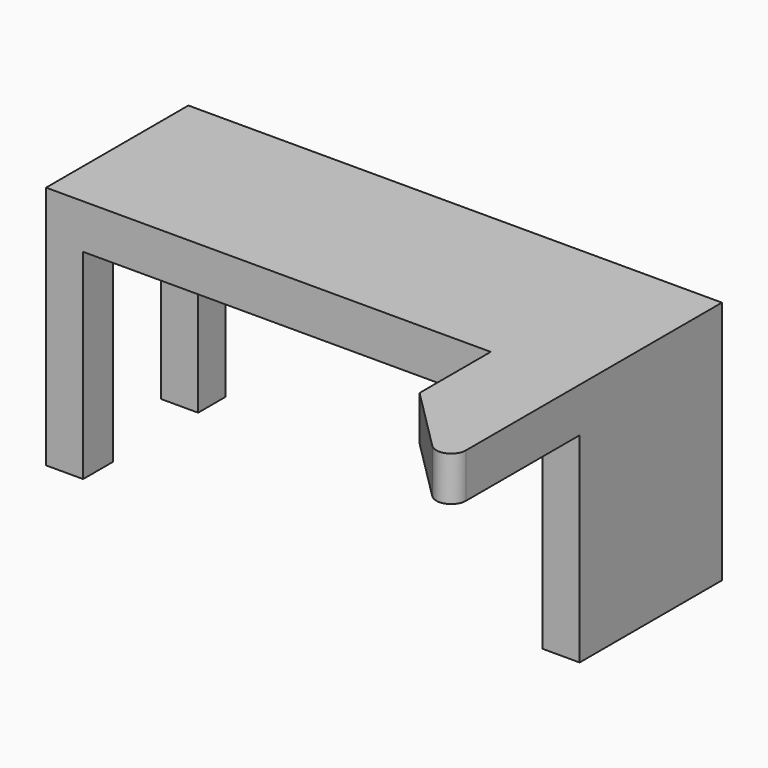
from build123d import *

# Parameters (mm, degrees)
F0_W     = 1828.8
F0_H     = 609.6
F1_DEPTH = 152.4
F2_W     = 127
F2_H     = 127
F2_H_2   = 116.919603
F3_DEPTH = 685.8
F5_DEPTH = 152.4


with BuildPart() as f1:
    # F0 (on Top) → F1 (new body)
    with BuildSketch(Plane.XY):
        Rectangle(F0_W, F0_H)
    extrude(amount=F1_DEPTH)

    # F2 (on face) → F3 (join)
    with BuildSketch(Plane(origin=(0, 0, 0), x_dir=(1, 0, 0), z_dir=(0, 0, -1))):
        with Locations((-850.9, 241.3)):
            Rectangle(F2_W, F2_H)
        with Locations((-850.9, -246.340198)):
            Rectangle(F2_W, F2_H_2)
        Polygon((787.4, -304.8), (914.4, -304.8), (914.4, 177.8), (914.4, 304.8), (787.4, 304.8), (787.4, -177.8), (482.6, -177.8), (482.6, -304.8), align=None)
    extrude(amount=F3_DEPTH)

    # F4 (on face) → F5 (join, through all)
    with BuildSketch(Plane.XY.offset(152.4)):
        with BuildLine():
            Line((914.4, -791.757951), (914.4, -304.8))
            Line((914.4, -304.8), (609.6, -304.8))
            Line((609.6, -304.8), (609.6, -609.6))
            Line((609.6, -609.6), (827.678976, -827.678976))
            ThreePointArc((827.678976, -827.678976), (883.040318, -838.691031), (914.4, -791.757951))
        make_face()
    extrude(amount=-F5_DEPTH)


solid = f1.part
